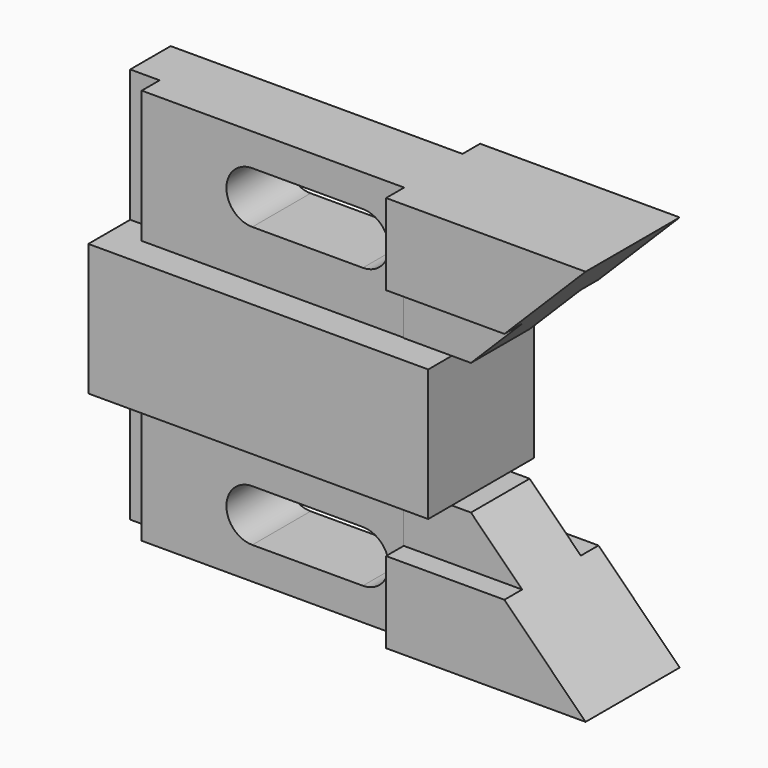
from build123d import *

# Parameters (mm, degrees)
F0_W      = 73.406
F0_H      = 28.575
F1_DEPTH  = 14.224
F3_DEPTH  = 28.575
F5_DEPTH  = 127
F9_DEPTH  = 4.7752
F11_DEPTH = 4.7752
F13_DEPTH = 4.7752
F15_DEPTH = 25.4


with BuildPart() as f1:
    # F0 (on Top) → F1 (new body, symmetric)
    with BuildSketch(Plane.XY):
        Rectangle(F0_W, F0_H)
    extrude(amount=F1_DEPTH, both=True)

    # F2 (on face) → F3 (join)
    with BuildSketch(Plane.XY.offset(14.224)):
        Polygon((26.32423571, 7.9375), (-36.703, 7.9375), (-36.703, -2.9845), (-30.353, -2.9845), (-30.353, -7.8105), (26.32423571, -7.8105), (26.32423571, -12.7), (36.703, -12.7), (36.703, 12.7), (26.32423571, 12.7), align=None)
        Polygon((69.4182, 12.7), (36.703, 12.7), (36.703, -12.7), (69.4182, -12.7), (69.4182, 0), align=None)
    extrude(amount=F3_DEPTH)

    # F4 (on face) → F5 (cut)
    with BuildSketch(Plane.XZ.offset(12.7)):
        Polygon((69.4182, 14.224), (69.4182, 42.799), (40.8432, 14.224), align=None)
    extrude(amount=-F5_DEPTH, mode=Mode.SUBTRACT)

    # F6: F1 across plane


with BuildPart() as f1_1:
    add(f1.part)
    add(f1.part.mirror(Plane.XY))

    # F7 (on face) + F8 (on face) → F9 (cut)
    with BuildSketch(Plane.XZ.offset(12.7)):
        Polygon((51.8922, 25.273), (32.893, 25.273), (26.32423571, 25.273), (26.32423571, 14.224), (36.703, 14.224), (40.8432, 14.224), align=None)
    with BuildSketch(Plane.XZ.offset(12.7)):
        Polygon((26.32423571, -14.224), (26.32423571, -25.273), (51.8922, -25.273), (40.8432, -14.224), (36.703, -14.224), align=None)
    extrude(amount=-F9_DEPTH, mode=Mode.SUBTRACT)

    # F10 (on face) → F11 (cut)
    with BuildSketch(Plane(origin=(0, 12.7, 0), x_dir=(-1, 0, 0), z_dir=(0, 1, 0))):
        Polygon((-40.8432, -14.224), (-51.8922, -25.273), (-26.32423571, -25.273), (-26.32423571, -14.224), (-36.703, -14.224), align=None)
    extrude(amount=-F11_DEPTH, mode=Mode.SUBTRACT)

    # F12 (on face) → F13 (cut)
    with BuildSketch(Plane(origin=(0, 12.7, 0), x_dir=(-1, 0, 0), z_dir=(0, 1, 0))):
        Polygon((-26.32423571, 25.273), (-51.8922, 25.273), (-40.8432, 14.224), (-36.703, 14.224), (-26.32423571, 14.224), align=None)
    extrude(amount=-F13_DEPTH, mode=Mode.SUBTRACT)

    # F14 (on face) → F15 (cut)
    with BuildSketch(Plane.XZ.offset(7.8105)):
        with BuildLine():
            Line((17.399, 35.814), (-6.477, 35.814))
            ThreePointArc((-6.477, 35.814), (-12.065, 30.226), (-6.477, 24.638))
            Line((-6.477, 24.638), (17.399, 24.638))
            ThreePointArc((17.399, 24.638), (22.987, 30.226), (17.399, 35.814))
        make_face()
        with BuildLine():
            Line((17.399, -24.638), (-6.477, -24.638))
            ThreePointArc((-6.477, -24.638), (-12.065, -30.226), (-6.477, -35.814))
            Line((-6.477, -35.814), (17.399, -35.814))
            ThreePointArc((17.399, -35.814), (22.987, -30.226), (17.399, -24.638))
        make_face()
    extrude(amount=-F15_DEPTH, mode=Mode.SUBTRACT)


solid = f1_1.part
